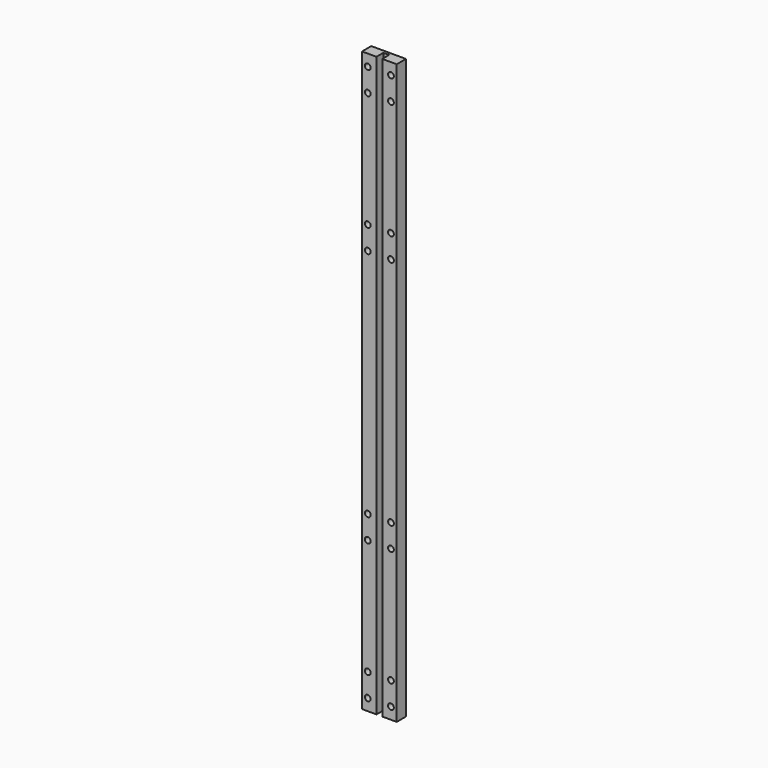
from build123d import *

# Parameters (mm, degrees)
F1_DEPTH = 400
F2_R     = 2
F3_DEPTH = 25


with BuildPart() as f1:
    # F0 (on Top) → F1 (new body)
    with BuildSketch(Plane.XY):
        Polygon((12, -4), (12, 4), (-12, 4), (-12, -4), (-2, -4), (-2, 2), (2, 2), (2, -4), align=None)
    extrude(amount=F1_DEPTH)

    # F2 (on face) → F3 (cut)
    with BuildSketch(Plane(origin=(0, 4, 0), x_dir=(-1, 0, 0), z_dir=(0, 1, 0))):
        with Locations((-8, 8)):
            Circle(F2_R)
        with Locations((-8, 24)):
            Circle(F2_R)
        with Locations((8, 8)):
            Circle(F2_R)
        with Locations((8, 24)):
            Circle(F2_R)
        with Locations((-8, 104)):
            Circle(F2_R)
        with Locations((-8, 120)):
            Circle(F2_R)
        with Locations((8, 104)):
            Circle(F2_R)
        with Locations((8, 120)):
            Circle(F2_R)
        with Locations((-8, 392)):
            Circle(F2_R)
        with Locations((-8, 296)):
            Circle(F2_R)
        with Locations((-8, 280)):
            Circle(F2_R)
        with Locations((8, 392)):
            Circle(F2_R)
        with Locations((-8, 376)):
            Circle(F2_R)
        with Locations((8, 296)):
            Circle(F2_R)
        with Locations((8, 376)):
            Circle(F2_R)
        with Locations((8, 280)):
            Circle(F2_R)
    extrude(amount=-F3_DEPTH, mode=Mode.SUBTRACT)


solid = f1.part
